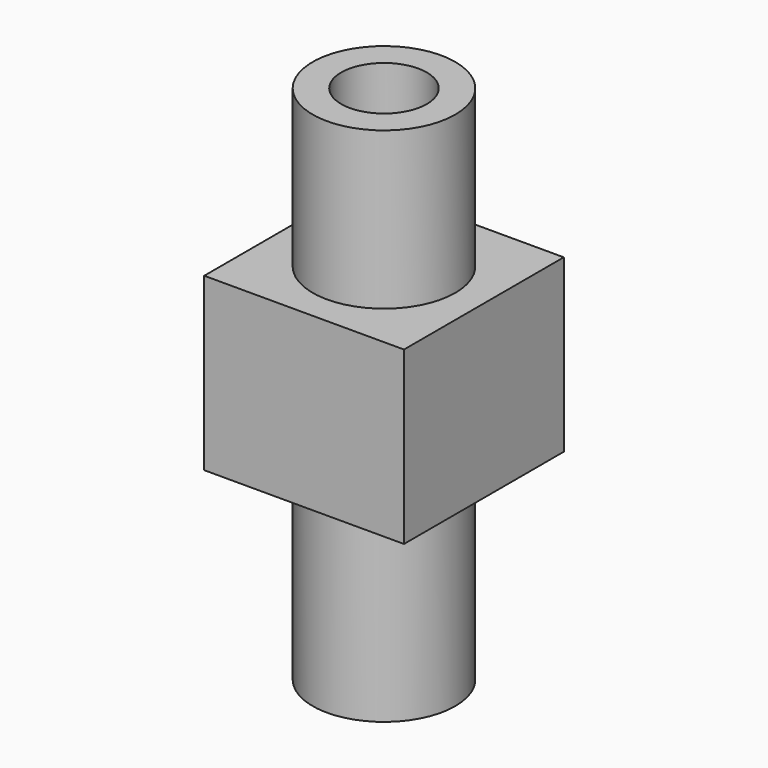
from build123d import *

# Parameters (mm, degrees)
F0_R     = 5
F1_DEPTH = 13.5
F2_W     = 14
F2_H     = 14
F3_DEPTH = 12
F4_R     = 5
F5_DEPTH = 11
F6_R     = 3
F7_DEPTH = 11.5
F9_DEPTH = 4.5


with BuildPart() as f1:
    # F0 (on Top) → F1 (new body)
    with BuildSketch(Plane.XY):
        Circle(F0_R)
    extrude(amount=F1_DEPTH)

    # F2 (on face) → F3 (join)
    with BuildSketch(Plane.XY.offset(13.5)):
        Rectangle(F2_W, F2_H)
    extrude(amount=F3_DEPTH)

    # F4 (on face) → F5 (join)
    with BuildSketch(Plane.XY.offset(25.5)):
        Circle(F4_R)
    extrude(amount=F5_DEPTH)

    # F6 (on face) → F7 (cut)
    with BuildSketch(Plane.XY.offset(36.5)):
        Circle(F6_R)
    extrude(amount=-F7_DEPTH, mode=Mode.SUBTRACT)

    # F8 (on face) → F9 (join)
    with BuildSketch(Plane.XY.offset(25)):
        with BuildLine():
            Line((2.4718414189, -1.7), (-2.4718414189, -1.7))
            ThreePointArc((-2.4718414189, -1.7), (0, -3), (2.4718414189, -1.7))
        make_face()
    extrude(amount=F9_DEPTH)


solid = f1.part
